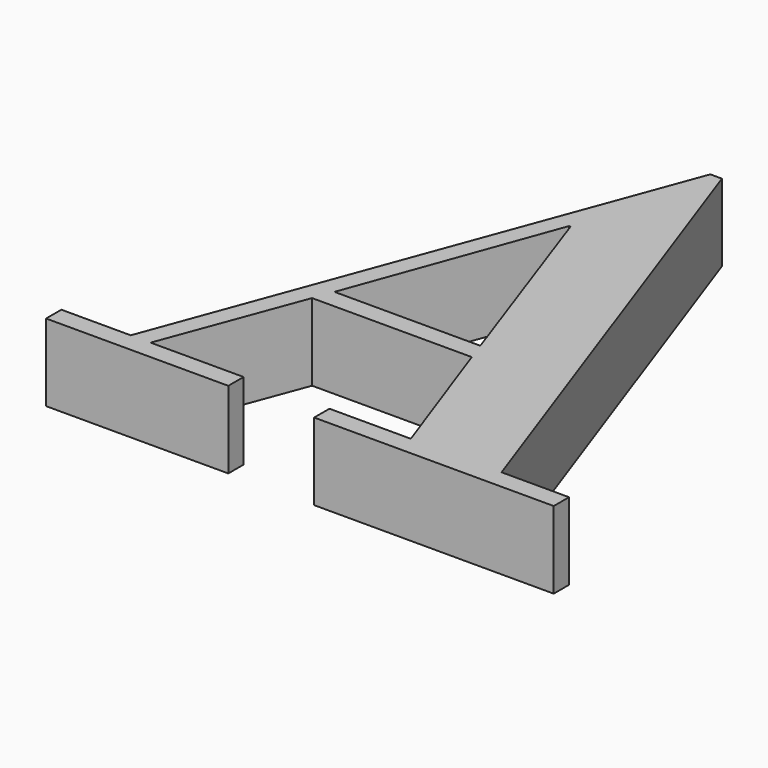
from build123d import *

# Parameters (mm, degrees)
F1_DEPTH = 45


with BuildPart() as f1:
    # F0 (on Top) → F1 (new body)
    with BuildSketch(Plane.XY):
        Polygon((-66.034691, -58.600819), (27.11419, -58.600819), (55.758373, -138.848471), (8.309083, -138.848471), (8.309083, -150), (148.032041, -150), (148.032041, -138.848471), (108.67285, -138.848471), (6.122862, 150), (-0.655503, 150), (-107.580103, -138.848471), (-148.032042, -138.848471), (-148.032042, -150), (-41.763672, -150), (-41.763672, -138.848471), (-95.990605, -138.848471), align=None)
        Polygon((23.178273, -47.44929), (-61.880509, -47.44929), (-19.023366, 69.970609), (-18.148157, 69.970609), align=None, mode=Mode.SUBTRACT)
    extrude(amount=F1_DEPTH)


solid = f1.part
